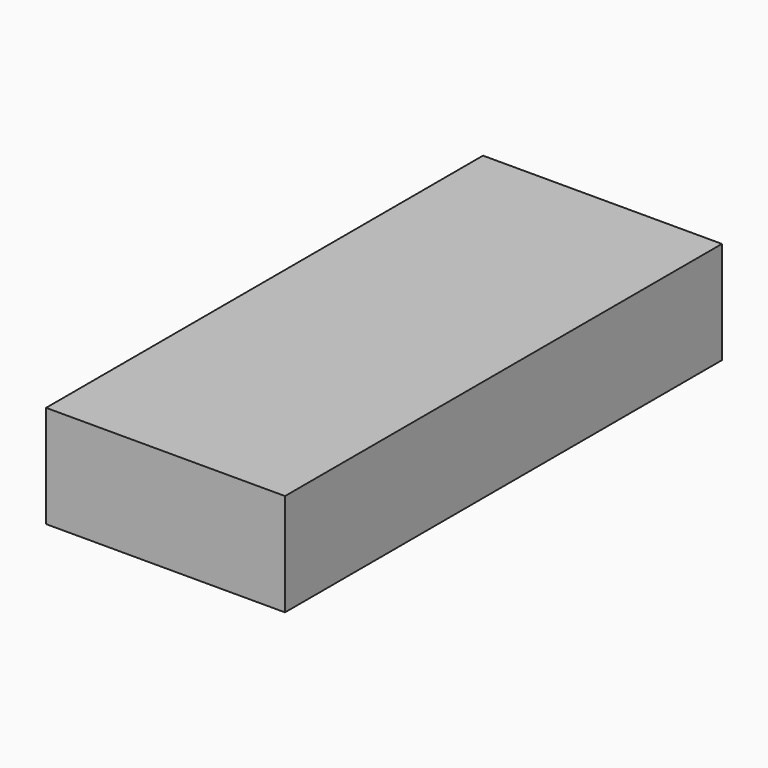
from build123d import *

# Parameters (mm, degrees)
F0_W     = 88.9
F0_H     = 203.2
F1_DEPTH = 38.1
F2_R     = 6.35
F3_DEPTH = 25.4


with BuildPart() as f1:
    # F0 (on Top) → F1 (new body)
    with BuildSketch(Plane.XY):
        Rectangle(F0_W, F0_H)
    extrude(amount=F1_DEPTH)

    # F2 (on Top) → F3 (join)
    with BuildSketch(Plane.XY):
        Circle(F2_R)
    extrude(amount=-F3_DEPTH)


solid = f1.part
